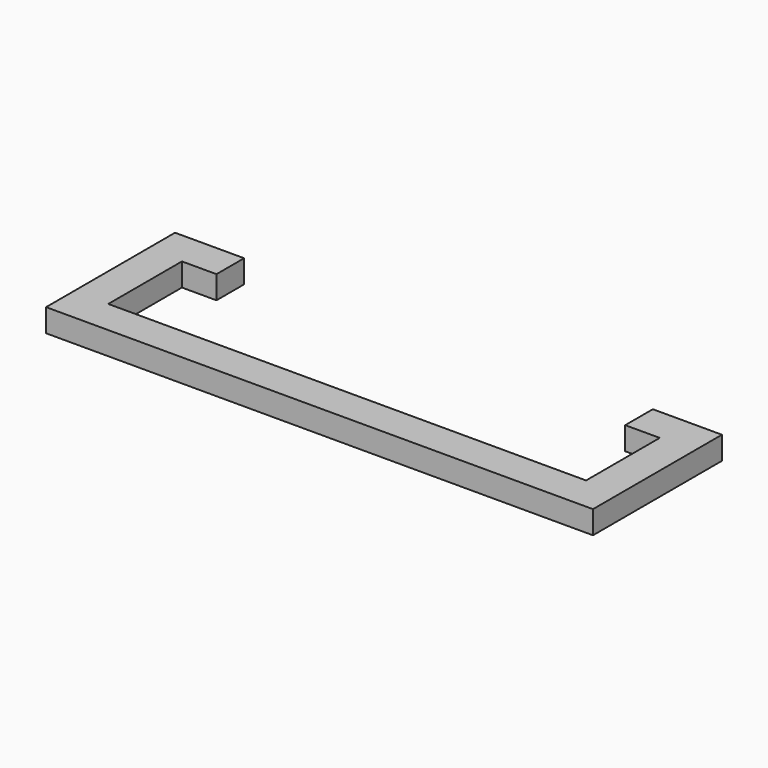
from build123d import *

# Parameters (mm, degrees)
F0_W     = 3
F0_H     = 8
F0_H_2   = 3
F0_W_2   = 41.5
F1_DEPTH = 2


with BuildPart() as f1:
    # F0 (on Top) → F1 (new body)
    with BuildSketch(Plane.XY):
        with Locations((-18.948788, 4)):
            Rectangle(F0_W, F0_H)
        with Locations((-18.948788, -1.5)):
            Rectangle(F0_W, F0_H_2)
        with Locations((3.301212, -1.5)):
            Rectangle(F0_W_2, F0_H_2)
        with Locations((-18.948788, 9.5)):
            Rectangle(F0_W, F0_H_2)
        with Locations((25.551212, 4)):
            Rectangle(F0_W, F0_H)
        with Locations((25.551212, -1.5)):
            Rectangle(F0_W, F0_H_2)
        with Locations((-15.948788, 9.5)):
            Rectangle(F0_W, F0_H_2)
        with Locations((22.551212, 9.5)):
            Rectangle(F0_W, F0_H_2)
        with Locations((25.551212, 9.5)):
            Rectangle(F0_W, F0_H_2)
    extrude(amount=F1_DEPTH)


solid = f1.part
